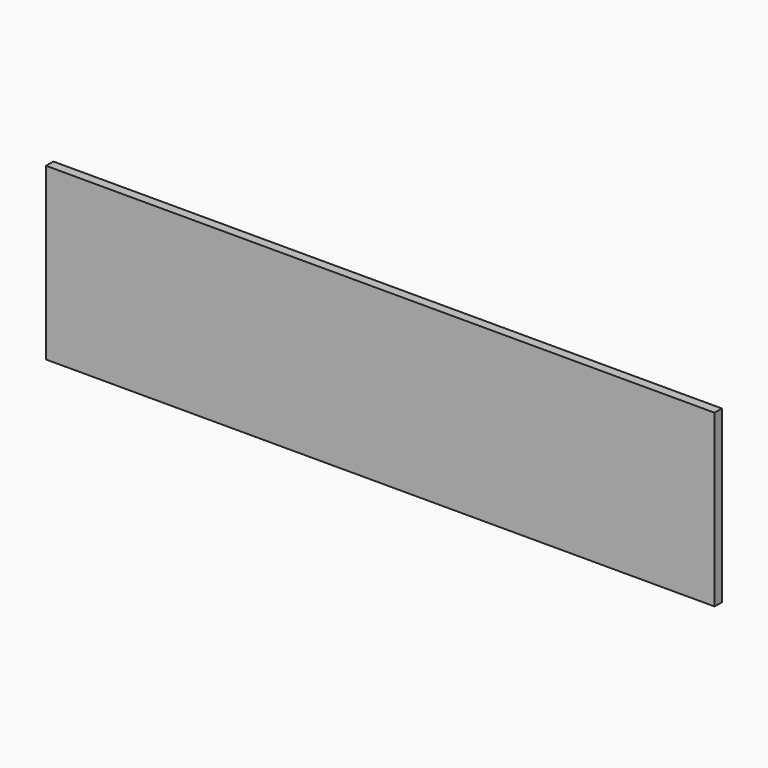
from build123d import *

# Parameters (mm, degrees)
F0_W     = 145
F0_H     = 35
F1_DEPTH = 2
F2_W     = 145
F2_H     = 2
F3_DEPTH = 2


with BuildPart() as f1:
    # F0 (on Front) → F1 (new body)
    with BuildSketch(Plane.XZ):
        Rectangle(F0_W, F0_H)
    extrude(amount=F1_DEPTH)

    # F2 (on face) → F3 (join)
    with BuildSketch(Plane(origin=(0, 0, -17.5), x_dir=(1, 0, 0), z_dir=(0, 0, -1))):
        with Locations((0, 1)):
            Rectangle(F2_W, F2_H)
    extrude(amount=F3_DEPTH)


solid = f1.part
